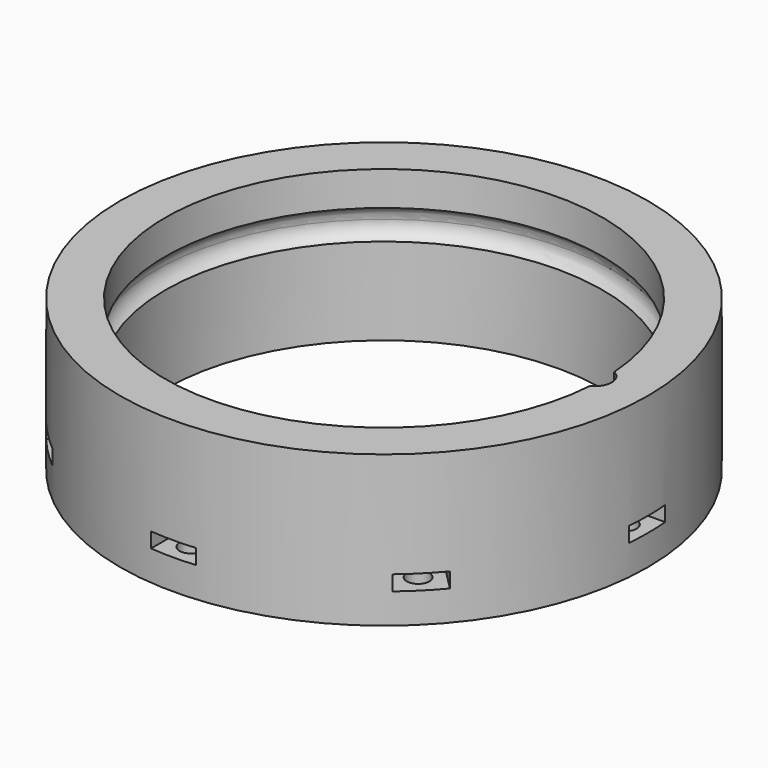
from build123d import *

# Parameters (mm, degrees)
BOX060_W                    = 6
BOX060_H                    = 6
BOX060_DEPTH                = 2
BOX061_W                    = 6
BOX061_H                    = 6
BOX061_DEPTH                = 2
BOX061_PLACEMENT_ANGLE      = 135
BOX062_W                    = 6
BOX062_H                    = 6
BOX062_DEPTH                = 2
BOX063_W                    = 6
BOX063_H                    = 6
BOX063_DEPTH                = 2
BOX063_PLACEMENT_ANGLE      = 225
BOX064_W                    = 6
BOX064_H                    = 6
BOX064_DEPTH                = 2
BOX065_W                    = 6
BOX065_H                    = 6
BOX065_DEPTH                = 2
BOX065_PLACEMENT_ANGLE      = 45
BOX058_W                    = 6
BOX058_H                    = 6
BOX058_DEPTH                = 2
BOX059_W                    = 6
BOX059_H                    = 6
BOX059_DEPTH                = 2
BOX059_PLACEMENT_ANGLE      = 45
CYLINDER149_R               = 1.5
CYLINDER149_DEPTH           = 10
CYLINDER150_R               = 1.5
CYLINDER150_DEPTH           = 10
CYLINDER150_PLACEMENT_ANGLE = 135
CYLINDER151_R               = 1.5
CYLINDER151_DEPTH           = 10
CYLINDER152_R               = 1.5
CYLINDER152_DEPTH           = 10
CYLINDER152_PLACEMENT_ANGLE = 225
CYLINDER153_R               = 1.5
CYLINDER153_DEPTH           = 10
CYLINDER154_R               = 1.5
CYLINDER154_DEPTH           = 10
CYLINDER154_PLACEMENT_ANGLE = 45
CYLINDER147_R               = 1.5
CYLINDER147_DEPTH           = 10
CYLINDER148_R               = 1.5
CYLINDER148_DEPTH           = 10
CYLINDER148_PLACEMENT_ANGLE = 45
CYLINDER146_R               = 2.2
CYLINDER146_DEPTH           = 10
TORUS002_R                  = 2.2
TUBE009_R                   = 35
TUBE009_R_2                 = 29
TUBE009_DEPTH               = 20


with BuildPart() as krychle060:
    # Box060 → Box060 (new body)
    with BuildSketch(Plane(origin=(-29, -3, 14), x_dir=(0, 1, 0), z_dir=(0, 0, 1))):
        with Locations((3, 3)):
            Rectangle(BOX060_W, BOX060_H)
    extrude(amount=BOX060_DEPTH)


with BuildPart() as krychle061:
    # Box061 → Box061 (new body)
    with BuildSketch(Plane.XY):
        with Locations((3, 3)):
            Rectangle(BOX061_W, BOX061_H)
    extrude(amount=BOX061_DEPTH)


with BuildPart() as krychle061_1:
    # Box061 placement: moved
    add(krychle061.part.moved(Location((-18.384776, -22.627417, 14))).rotate(Axis((-18.384776, -22.627417, 14), (0, 0, 1)), BOX061_PLACEMENT_ANGLE))


with BuildPart() as krychle062:
    # Box062 → Box062 (new body)
    with BuildSketch(Plane(origin=(3, -29, 14), x_dir=(-1, 0, 0), z_dir=(0, 0, 1))):
        with Locations((3, 3)):
            Rectangle(BOX062_W, BOX062_H)
    extrude(amount=BOX062_DEPTH)


with BuildPart() as krychle063:
    # Box063 → Box063 (new body)
    with BuildSketch(Plane.XY):
        with Locations((3, 3)):
            Rectangle(BOX063_W, BOX063_H)
    extrude(amount=BOX063_DEPTH)


with BuildPart() as krychle063_1:
    # Box063 placement: moved
    add(krychle063.part.moved(Location((22.627417, -18.384776, 14))).rotate(Axis((22.627417, -18.384776, 14), (0, 0, 1)), BOX063_PLACEMENT_ANGLE))


with BuildPart() as krychle064:
    # Box064 → Box064 (new body)
    with BuildSketch(Plane(origin=(29, 3, 14), x_dir=(0, -1, 0), z_dir=(0, 0, 1))):
        with Locations((3, 3)):
            Rectangle(BOX064_W, BOX064_H)
    extrude(amount=BOX064_DEPTH)


with BuildPart() as krychle065:
    # Box065 → Box065 (new body)
    with BuildSketch(Plane.XY):
        with Locations((3, 3)):
            Rectangle(BOX065_W, BOX065_H)
    extrude(amount=BOX065_DEPTH)


with BuildPart() as krychle065_1:
    # Box065 placement: moved
    add(krychle065.part.moved(Location((18.384776, 22.627417, 14))).rotate(Axis((18.384776, 22.627417, 14), (0, 0, -1)), BOX065_PLACEMENT_ANGLE))


with BuildPart() as krychle058:
    # Box058 → Box058 (new body)
    with BuildSketch(Plane(origin=(-3, 29, 14), x_dir=(1, 0, 0), z_dir=(0, 0, 1))):
        with Locations((3, 3)):
            Rectangle(BOX058_W, BOX058_H)
    extrude(amount=BOX058_DEPTH)


with BuildPart() as compound048:
    # Box059 → Box059 (new body)
    with BuildSketch(Plane.XY):
        with Locations((3, 3)):
            Rectangle(BOX059_W, BOX059_H)
    extrude(amount=BOX059_DEPTH)


with BuildPart() as compound048_1:
    # Box059 placement: moved
    add(compound048.part.moved(Location((-22.627417, 18.384776, 14))).rotate(Axis((-22.627417, 18.384776, 14), (0, 0, 1)), BOX059_PLACEMENT_ANGLE))

    # Compound048: union Krychle060, Krychle061, Krychle062, Krychle063, Krychle064, Krychle065, Krychle058
    add(krychle060.part)
    add(krychle061_1.part)
    add(krychle062.part)
    add(krychle063_1.part)
    add(krychle064.part)
    add(krychle065_1.part)
    add(krychle058.part)


with BuildPart() as obj1:
    # Cylinder149 → Cylinder149 (new body)
    with BuildSketch(Plane(origin=(-32, 0, 10), x_dir=(0, 1, 0), z_dir=(0, 0, 1))):
        Circle(CYLINDER149_R)
    extrude(amount=CYLINDER149_DEPTH)


with BuildPart() as obj2:
    # Cylinder150 → Cylinder150 (new body)
    with BuildSketch(Plane.XY):
        Circle(CYLINDER150_R)
    extrude(amount=CYLINDER150_DEPTH)


with BuildPart() as obj2_1:
    # Cylinder150 placement: moved
    add(obj2.part.moved(Location((-22.627417, -22.627417, 10))).rotate(Axis((-22.627417, -22.627417, 10), (0, 0, 1)), CYLINDER150_PLACEMENT_ANGLE))


with BuildPart() as obj3:
    # Cylinder151 → Cylinder151 (new body)
    with BuildSketch(Plane(origin=(0, -32, 10), x_dir=(-1, 0, 0), z_dir=(0, 0, 1))):
        Circle(CYLINDER151_R)
    extrude(amount=CYLINDER151_DEPTH)


with BuildPart() as obj4:
    # Cylinder152 → Cylinder152 (new body)
    with BuildSketch(Plane.XY):
        Circle(CYLINDER152_R)
    extrude(amount=CYLINDER152_DEPTH)


with BuildPart() as obj4_1:
    # Cylinder152 placement: moved
    add(obj4.part.moved(Location((22.627417, -22.627417, 10))).rotate(Axis((22.627417, -22.627417, 10), (0, 0, 1)), CYLINDER152_PLACEMENT_ANGLE))


with BuildPart() as obj5:
    # Cylinder153 → Cylinder153 (new body)
    with BuildSketch(Plane(origin=(32, 0, 10), x_dir=(0, -1, 0), z_dir=(0, 0, 1))):
        Circle(CYLINDER153_R)
    extrude(amount=CYLINDER153_DEPTH)


with BuildPart() as obj6:
    # Cylinder154 → Cylinder154 (new body)
    with BuildSketch(Plane.XY):
        Circle(CYLINDER154_R)
    extrude(amount=CYLINDER154_DEPTH)


with BuildPart() as obj6_1:
    # Cylinder154 placement: moved
    add(obj6.part.moved(Location((22.627417, 22.627417, 10))).rotate(Axis((22.627417, 22.627417, 10), (0, 0, -1)), CYLINDER154_PLACEMENT_ANGLE))


with BuildPart() as obj7:
    # Cylinder147 → Cylinder147 (new body)
    with BuildSketch(Plane(origin=(0, 32, 10), x_dir=(1, 0, 0), z_dir=(0, 0, 1))):
        Circle(CYLINDER147_R)
    extrude(amount=CYLINDER147_DEPTH)


with BuildPart() as compound047:
    # Cylinder148 → Cylinder148 (new body)
    with BuildSketch(Plane.XY):
        Circle(CYLINDER148_R)
    extrude(amount=CYLINDER148_DEPTH)


with BuildPart() as compound047_1:
    # Cylinder148 placement: moved
    add(compound047.part.moved(Location((-22.627417, 22.627417, 10))).rotate(Axis((-22.627417, 22.627417, 10), (0, 0, 1)), CYLINDER148_PLACEMENT_ANGLE))

    # Compound047: union obj1, obj2, obj3, obj4, obj5, obj6, obj7
    add(obj1.part)
    add(obj2_1.part)
    add(obj3.part)
    add(obj4_1.part)
    add(obj5.part)
    add(obj6_1.part)
    add(obj7.part)


with BuildPart() as obj8:
    # Cylinder146 → Cylinder146 (new body)
    with BuildSketch(Plane(origin=(28, 0, 23.5), x_dir=(1, 0, 0), z_dir=(0, 0, 1))):
        Circle(CYLINDER146_R)
    extrude(amount=CYLINDER146_DEPTH)


with BuildPart() as obj9:
    # Torus002 → Torus002 (revolve)
    with BuildSketch(Plane(origin=(0, 0, 23.5), x_dir=(1, 0, 0), z_dir=(0, -1, 0))):
        with Locations((28, 0)):
            Circle(TORUS002_R)
    revolve(axis=Axis((0, 0, 23.5), (0, 0, 1)))


with BuildPart() as obj10:
    # Tube009 → Tube009 (new body)
    with BuildSketch(Plane.XY.offset(10)):
        Circle(TUBE009_R)
        Circle(TUBE009_R_2, mode=Mode.SUBTRACT)
    extrude(amount=TUBE009_DEPTH)

    # Cut052: cut obj9
    add(obj9.part, mode=Mode.SUBTRACT)

    # Cut053: cut obj8
    add(obj8.part, mode=Mode.SUBTRACT)

    # Cut054: cut Compound047
    add(compound047_1.part, mode=Mode.SUBTRACT)

    # Cut055: cut Compound048
    add(compound048_1.part, mode=Mode.SUBTRACT)


solid = obj10.part
